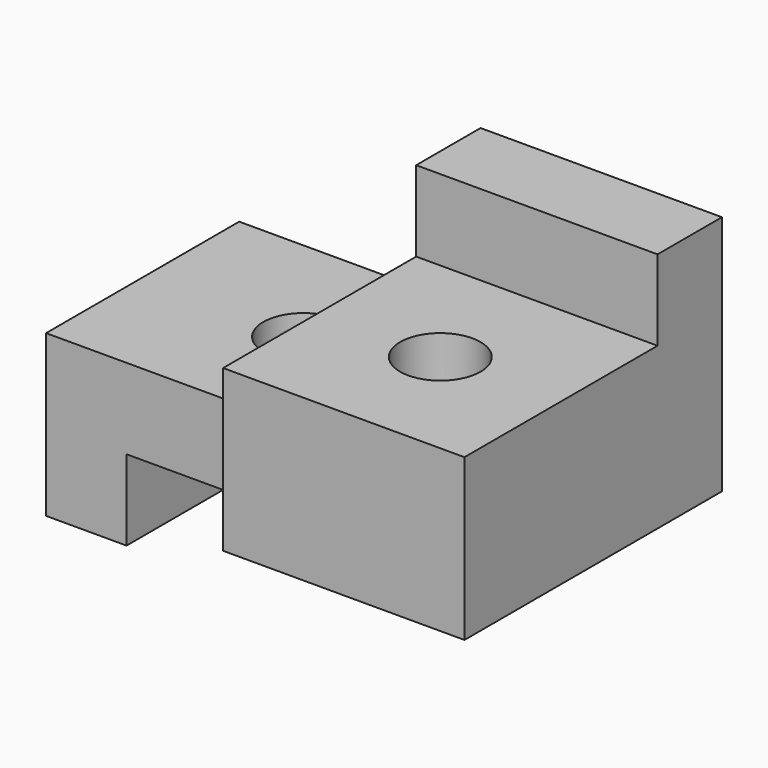
from build123d import *

# Parameters (mm, degrees)
F0_W     = 6.35
F0_H     = 19.05
F0_R     = 3.175
F0_W_2   = 19.05
F0_H_2   = 6.35
F1_DEPTH = 6.35
F2_DEPTH = 12.7
F3_DEPTH = 19.05
F4_DEPTH = 6.35


with BuildPart() as f1:
    # F0 (on Top) → F1 (new body)
    with BuildSketch(Plane.XY):
        with Locations((3.175, 9.525)):
            Rectangle(F0_W, F0_H)
        Polygon((6.35, 19.05), (6.35, 0), (19.05, 0), (19.05, 12.7), (19.05, 19.05), align=None)
        with Locations((12.7, 9.525)):
            Circle(F0_R, mode=Mode.SUBTRACT)
        Polygon((19.05, 12.7), (19.05, 0), (19.05, -6.35), (38.1, -6.35), (38.1, 12.7), align=None)
        with Locations((28.575, 3.175)):
            Circle(F0_R, mode=Mode.SUBTRACT)
        with Locations((28.575, 15.875)):
            Rectangle(F0_W_2, F0_H_2)
    extrude(amount=F1_DEPTH)

    # F0 (on Top) → F2 (join)
    with BuildSketch(Plane.XY):
        Polygon((19.05, 12.7), (19.05, 0), (19.05, -6.35), (38.1, -6.35), (38.1, 12.7), align=None)
        with Locations((28.575, 3.175)):
            Circle(F0_R, mode=Mode.SUBTRACT)
    extrude(amount=F2_DEPTH)

    # F0 (on Top) → F3 (join)
    with BuildSketch(Plane.XY):
        with Locations((28.575, 15.875)):
            Rectangle(F0_W_2, F0_H_2)
    extrude(amount=F3_DEPTH)

    # F0 (on Top) → F4 (join)
    with BuildSketch(Plane.XY):
        with Locations((3.175, 9.525)):
            Rectangle(F0_W, F0_H)
    extrude(amount=-F4_DEPTH)


solid = f1.part
